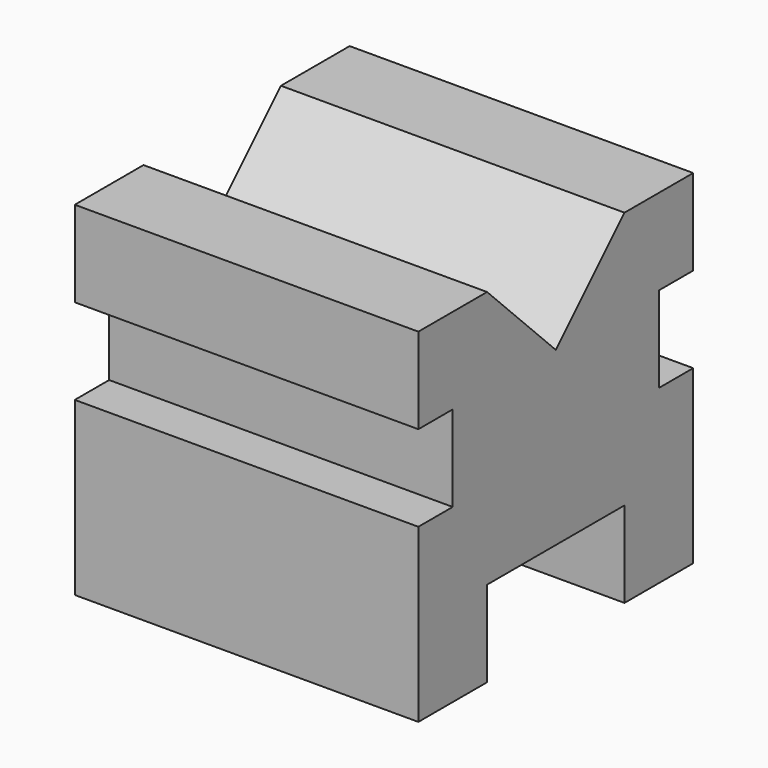
from build123d import *

# Parameters (mm, degrees)
F1_DEPTH = 101.6


with BuildPart() as f1:
    # F0 (on Right) → F1 (new body)
    with BuildSketch(Plane.YZ):
        Polygon((-25.4, 0), (0, 0), (0, 50.8), (-12.7, 50.8), (-12.7, 76.2), (0, 76.2), (0, 101.6), (-25.4, 101.6), (-50.8, 76.2), (-76.2, 101.6), (-101.6, 101.6), (-101.6, 76.2), (-88.9, 76.2), (-88.9, 50.8), (-101.6, 50.8), (-101.6, 0), (-76.2, 0), (-76.2, 25.4), (-50.8, 25.4), (-25.4, 25.4), align=None)
    extrude(amount=F1_DEPTH)


solid = f1.part
